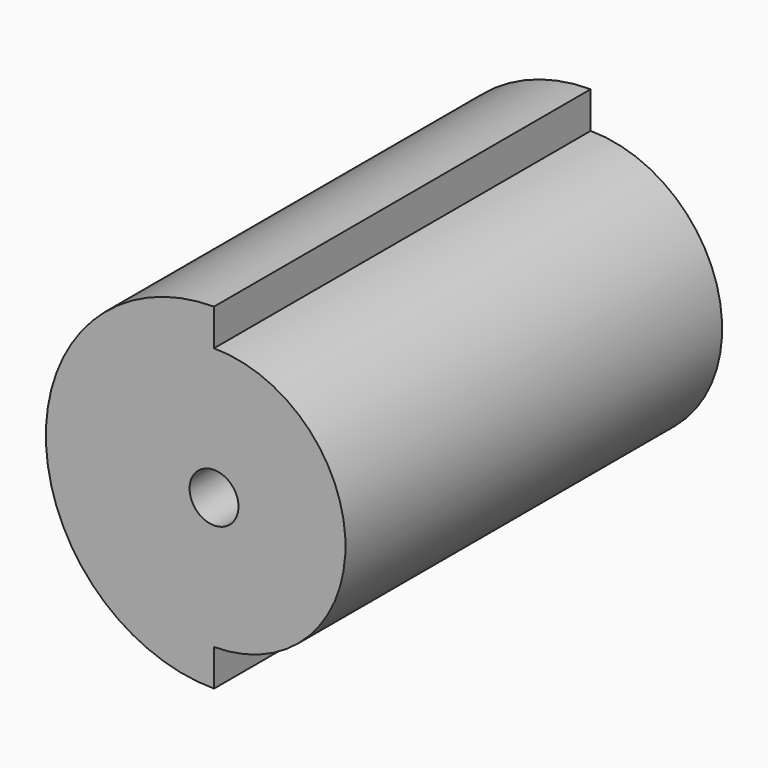
from build123d import *

# Parameters (mm, degrees)
F0_R     = 2
F1_DEPTH = 19.25


with BuildPart() as f1:
    # F0 (on Front) → F1 (new body, symmetric)
    with BuildSketch(Plane.XZ):
        with BuildLine():
            Line((0, 10.75), (0, 13.75))
            ThreePointArc((0, 13.75), (-13.75, 0), (0, -13.75))
            Line((0, -13.75), (0, -10.75))
            ThreePointArc((0, -10.75), (10.75, 0), (0, 10.75))
        make_face()
        Circle(F0_R, mode=Mode.SUBTRACT)
    extrude(amount=F1_DEPTH, both=True)


solid = f1.part
